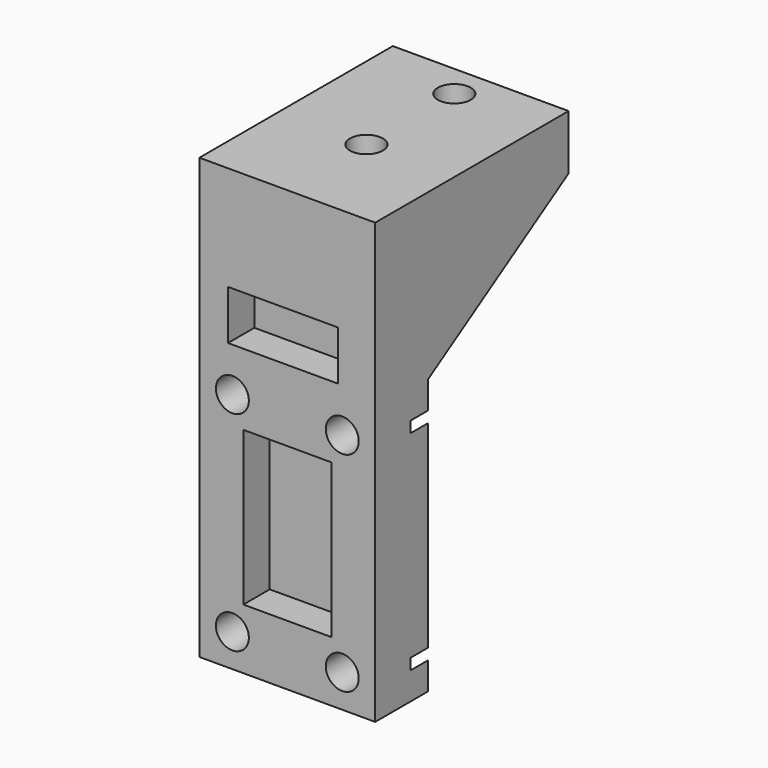
from build123d import *

# Parameters (mm, degrees)
F0_W      = 16
F0_H      = 40
F0_R      = 1.5
F0_W_2    = 8
F0_H_2    = 14
F0_W_3    = 10
F0_H_3    = 4.5
F1_DEPTH  = 6
F2_DEPTH  = 3
F3_W      = 16
F3_H      = 16
F3_R      = 1.5
F4_DEPTH  = 5
F7_DEPTH  = 2
F9_DEPTH  = 4
F10_START = -12
F10_DEPTH = 4


with BuildPart() as f1:
    # F0 (on Front) → F1 (new body)
    with BuildSketch(Plane.XZ):
        with Locations((0.6433322058, -1.0231063997)):
            Rectangle(F0_W, F0_H)
        with Locations((-4.3566677942, -18.0231063997)):
            Circle(F0_R, mode=Mode.SUBTRACT)
        with Locations((0.6433322058, -8.5231063997)):
            Rectangle(F0_W_2, F0_H_2, mode=Mode.SUBTRACT)
        with Locations((5.6433322058, -18.0231063997)):
            Circle(F0_R, mode=Mode.SUBTRACT)
        with Locations((-4.3566677942, 0.9768936003)):
            Circle(F0_R, mode=Mode.SUBTRACT)
        with Locations((0.246625971, 7.2268936003)):
            Rectangle(F0_W_3, F0_H_3, mode=Mode.SUBTRACT)
        with Locations((5.6433322058, 0.9768936003)):
            Circle(F0_R, mode=Mode.SUBTRACT)
    extrude(amount=F1_DEPTH)

    # F0 (on Front) → F2 (join)
    with BuildSketch(Plane.XZ):
        with Locations((0.246625971, 7.2268936003)):
            Rectangle(F0_W_3, F0_H_3)
        with Locations((0.6433322058, -8.5231063997)):
            Rectangle(F0_W_2, F0_H_2)
    extrude(amount=F2_DEPTH)

    # F3 (on face) → F4 (join)
    with BuildSketch(Plane.XY.offset(18.9768936003)):
        with Locations((0.6433322058, 8)):
            Rectangle(F3_W, F3_H)
        with Locations((0.6433322058, 3)):
            Circle(F3_R, mode=Mode.SUBTRACT)
        with Locations((0.6433322058, 13)):
            Circle(F3_R, mode=Mode.SUBTRACT)
    extrude(amount=-F4_DEPTH)

    # F6 (on face) → F7 (cut)
    with BuildSketch(Plane.XZ):
        Polygon((7.288780473, 3.8268936003), (3.9978839386, 3.8268936003), (2.3524356714, 0.9768936003), (3.9978839386, -1.8731063997), (7.288780473, -1.8731063997), (8.9342287402, 0.9768936003), align=None)
        Polygon((-2.711219527, 3.8268936003), (-6.0021160614, 3.8268936003), (-7.6475643286, 0.9768936003), (-6.0021160614, -1.8731063997), (-2.711219527, -1.8731063997), (-1.0657712598, 0.9768936003), align=None)
        Polygon((-2.711219527, -15.1731063997), (-6.0021160614, -15.1731063997), (-7.6475643286, -18.0231063997), (-6.0021160614, -20.8731063997), (-2.711219527, -20.8731063997), (-1.0657712598, -18.0231063997), align=None)
        Polygon((7.288780473, -15.1731063997), (3.9978839386, -15.1731063997), (2.3524356714, -18.0231063997), (3.9978839386, -20.8731063997), (7.288780473, -20.8731063997), (8.9342287402, -18.0231063997), align=None)
    extrude(amount=F7_DEPTH, mode=Mode.SUBTRACT)

    # F8 (on face) → F9 (join)
    with BuildSketch(Plane(origin=(-7.3566677942, 0, 0), x_dir=(0, -1, 0), z_dir=(-1, 0, 0))):
        Polygon((-16, 13.9768936003), (0, 3.9768936003), (0, 13.9768936003), align=None)
    extrude(amount=-F9_DEPTH)

    # F8 (on face) → F10 (join)
    with BuildSketch(Plane(origin=(-7.3566677942, 0, 0), x_dir=(0, -1, 0), z_dir=(-1, 0, 0)).offset(F10_START)):
        Polygon((-16, 13.9768936003), (0, 3.9768936003), (0, 13.9768936003), align=None)
    extrude(amount=-F10_DEPTH)


solid = f1.part
